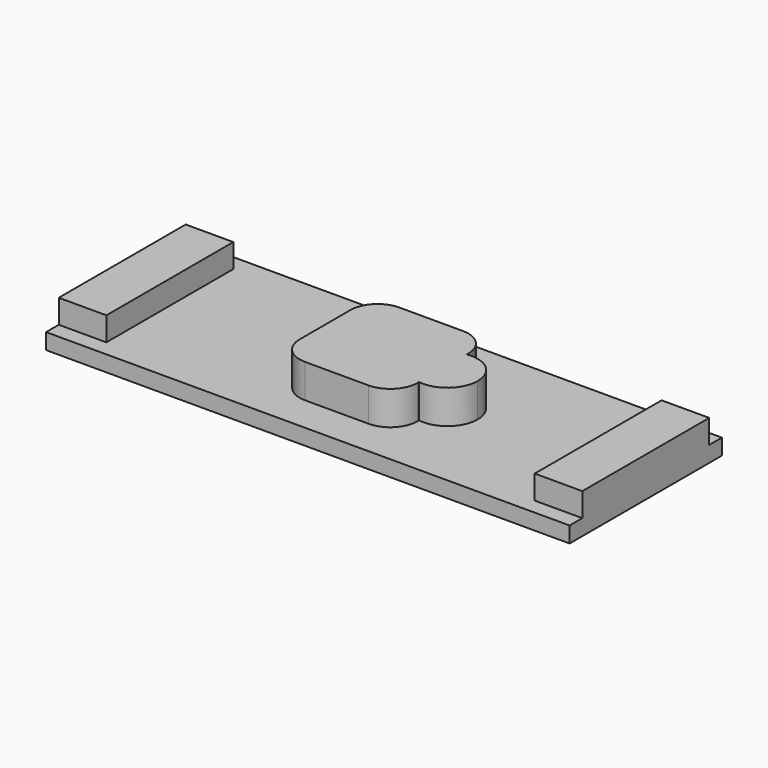
from build123d import *

# Parameters (mm, degrees)
F2_W      = 5
F2_H      = 5
F4_DEPTH  = 2.13
F5_DEPTH  = 2.13
F6_W      = 33
F6_H      = 12
F7_DEPTH  = 1
F9_DEPTH  = 2.13
F10_W     = 3
F10_H     = 10
F11_DEPTH = 1.5


with BuildPart() as f4:
    # F2 (on Top) → F4 (new body)
    with BuildSketch(Plane.XY):
        Rectangle(F2_W, F2_H)
    extrude(amount=F4_DEPTH)



with BuildPart() as f5:
    # F3 (on face) → F5 (new body)
    with BuildSketch(Plane.XY):
        with BuildLine():
            ThreePointArc((5.905, 0), (4.6210978184, 1.800906022), (2.5, 1.1743189516))
            Line((2.5, 1.1743189516), (2.5, -1.1743189516))
            ThreePointArc((2.5, -1.1743189516), (4.6210978184, -1.800906022), (5.905, 0))
        make_face()
    extrude(amount=F5_DEPTH)


with BuildPart() as f7:
    # F6 (on face) → F7 (new body)
    with BuildSketch(Plane.XY):
        Rectangle(F6_W, F6_H)
    extrude(amount=-F7_DEPTH)


with BuildPart() as f4_1:
    add(f4.part)

    add(f5.part)  # F9 merges F5

    add(f7.part)  # F9 merges F7
    # F8 (on face) → F9 (join, through all)
    with BuildSketch(Plane.XY):
        with BuildLine():
            Line((2, 3.7145), (-2, 3.7145))
            ThreePointArc((-2, 3.7145), (-3.2123345763, 3.2123345763), (-3.7145, 2))
            Line((-3.7145, 2), (-3.7145, -2))
            ThreePointArc((-3.7145, -2), (-3.2123345763, -3.2123345763), (-2, -3.7145))
            Line((-2, -3.7145), (2, -3.7145))
            ThreePointArc((2, -3.7145), (3.2123345763, -3.2123345763), (3.7145, -2))
            Line((3.7145, -2), (3.7145, 2))
            ThreePointArc((3.7145, 2), (3.2123345763, 3.2123345763), (2, 3.7145))
        make_face()
    extrude(amount=F9_DEPTH)

    # F10 (on face) → F11 (join)
    with BuildSketch(Plane.XY):
        with Locations((-15, 0)):
            Rectangle(F10_W, F10_H)
        with Locations((15, 0)):
            Rectangle(F10_W, F10_H)
    extrude(amount=F11_DEPTH)


solid = f4_1.part
